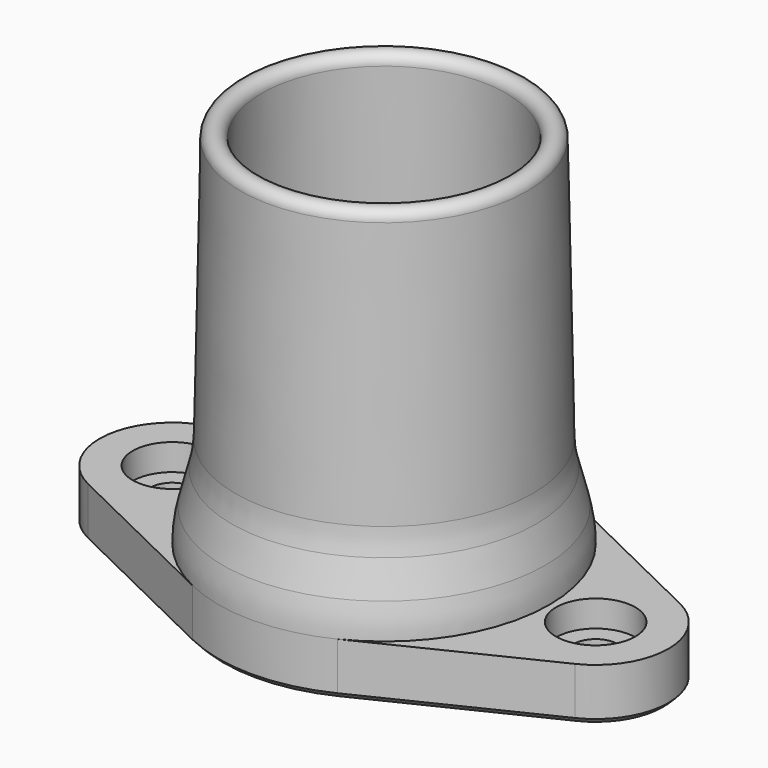
from build123d import *

# Parameters (mm, degrees)
SKETCH023_R     = 10.7
SKETCH023_R_2   = 1.65
PAD002_DEPTH    = 4
SKETCH022_R     = 3
POCKET002_DEPTH = 2
CHAMFER002_SIZE = 0.4


with BuildPart() as part:
    # Sketch021 (on XZ_Plane004 of Origin012) → Revolution002 (revolve)
    with BuildSketch(Plane.XZ):
        with BuildLine():
            Line((11.25, 11), (10.85, 31))
            ThreePointArc((10.85, 31), (10.034163, 31.783843), (9.25032, 30.968006))
            Line((9.25032, 30.968006), (9.65032, 10.968006))
            ThreePointArc((9.65032, 10.968006), (9.704303, 10.111313), (9.831558, 9.262405))
            Line((10.549746, 5.562561), (9.831558, 9.262405))
            ThreePointArc((10.7, 4), (10.66235, 4.784884), (10.549746, 5.562561))
            Line((10.7, 4), (12.5, 4))
            ThreePointArc((12.5, 4), (12.419287, 5.267973), (12.178449, 6.515477))
            Line((12.178449, 6.515477), (11.518423, 9.054966))
            ThreePointArc((11.25, 11), (11.327186, 10.019613), (11.518423, 9.054966))
        make_face()
    revolve(axis=Axis((0, 0, 0), (0, 0, 1)))

    # Sketch023 (on Face1 of Revolution002) → Pad002 (new body)
    with BuildSketch(Plane(origin=(0, 0, 4), x_dir=(1, 0, 0), z_dir=(0, 0, -1))):
        with BuildLine():
            ThreePointArc((5.46875, 11.24023), (0, 12.5), (-5.46875, 11.24023))
            Line((-5.46875, 11.24023), (-18.40625, 4.945701))
            ThreePointArc((-18.40625, 4.945701), (-21.5, 0), (-18.40625, -4.945701))
            Line((-18.40625, -4.945701), (-5.46875, -11.24023))
            ThreePointArc((-5.46875, -11.24023), (0, -12.5), (5.46875, -11.24023))
            Line((5.46875, -11.24023), (18.40625, -4.945701))
            ThreePointArc((18.40625, -4.945701), (21.5, 0), (18.40625, 4.945701))
            Line((5.46875, 11.24023), (18.40625, 4.945701))
        make_face()
        Circle(SKETCH023_R, mode=Mode.SUBTRACT)
        with Locations((-16, 0)):
            Circle(SKETCH023_R_2, mode=Mode.SUBTRACT)
        with Locations((16, 0)):
            Circle(SKETCH023_R_2, mode=Mode.SUBTRACT)
    extrude(amount=PAD002_DEPTH)

    # Sketch022 (on Face3 of Pad002) → Pocket002 (cut)
    with BuildSketch(Plane.XY.offset(4)):
        with Locations((-16, 0)):
            Circle(SKETCH022_R)
        with Locations((16, 0)):
            Circle(SKETCH022_R)
    extrude(amount=-POCKET002_DEPTH, mode=Mode.SUBTRACT)

    # Chamfer002
    chamfer002_edges = [part.edges().sort_by_distance(p)[0] for p in [
        (-10.7, 0, 0),
        (-17.65, 0, 0),
        (14.35, 0, 0),
        (-11.9375, 8.092966, 0),
    ]]
    chamfer(chamfer002_edges, length=CHAMFER002_SIZE)


with BuildPart() as part_1:
    # Body005 placement: moved
    add(part.part.moved(Location((0, 30, 0))))


solid = part_1.part
